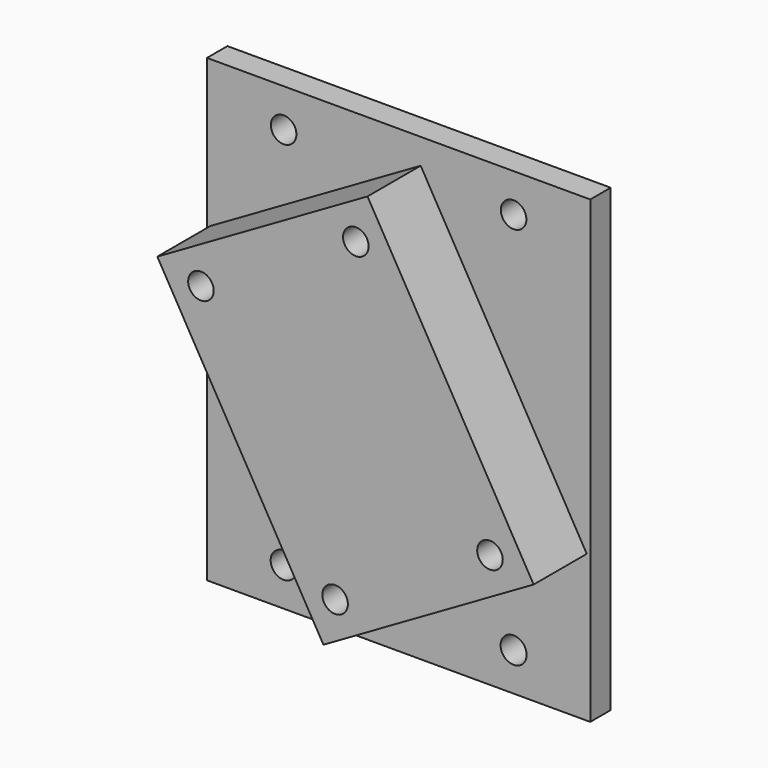
from build123d import *

# Parameters (mm, degrees)
F0_R     = 1.017764
F0_R_2   = 1
F1_DEPTH = 2
F2_R     = 1
F3_DEPTH = 5.2
F4_R     = 1.5
F4_R_2   = 1
F5_DEPTH = 3.5
F6_R     = 1
F7_DEPTH = 10


with BuildPart() as f1:
    # F0 (on Front) → F1 (new body)
    with BuildSketch(Plane.XZ):
        Polygon((-11.371579, 18), (-15, 18), (-15, -18), (15, -18), (15, 18), (5.371579, 18), align=None)
        with Locations((-9, -15)):
            Circle(F0_R, mode=Mode.SUBTRACT)
        with Locations((-0.812178, -12.593267)):
            Circle(F0_R_2, mode=Mode.SUBTRACT)
        with Locations((9, -15)):
            Circle(F0_R, mode=Mode.SUBTRACT)
        with Locations((11.312178, -5.593267)):
            Circle(F0_R_2, mode=Mode.SUBTRACT)
        with Locations((-11.312178, 5.593267)):
            Circle(F0_R_2, mode=Mode.SUBTRACT)
        with Locations((-9, 15)):
            Circle(F0_R_2, mode=Mode.SUBTRACT)
        with Locations((0.812178, 12.593267)):
            Circle(F0_R_2, mode=Mode.SUBTRACT)
        with Locations((9, 15)):
            Circle(F0_R_2, mode=Mode.SUBTRACT)
    extrude(amount=F1_DEPTH)

    # F2 (on face) → F3 (join)
    with BuildSketch(Plane.XZ.offset(2)):
        with Locations((-11.312178, 5.593267)):
            Circle(F2_R)
        with Locations((-0.812178, -12.593267)):
            Circle(F2_R)
        with Locations((0.812178, 12.593267)):
            Circle(F2_R)
        with Locations((11.312178, -5.593267)):
            Circle(F2_R)
        Polygon((14.727241, -6.50833), (1.727241, 16.00833), (-14.727241, 6.50833), (-1.727241, -16.00833), align=None)
        with Locations((-0.812178, -12.593267)):
            Circle(F2_R, mode=Mode.SUBTRACT)
        with Locations((11.312178, -5.593267)):
            Circle(F2_R, mode=Mode.SUBTRACT)
        with Locations((-11.312178, 5.593267)):
            Circle(F2_R, mode=Mode.SUBTRACT)
        with Locations((0.812178, 12.593267)):
            Circle(F2_R, mode=Mode.SUBTRACT)
    extrude(amount=F3_DEPTH)

    # F4 (on face) → F5 (cut)
    with BuildSketch(Plane(origin=(0, 0, 0), x_dir=(-1, 0, 0), z_dir=(0, 1, 0))):
        with Locations((-11.312178, -5.593267)):
            Circle(F4_R)
        with Locations((-11.312178, -5.593267)):
            Circle(F4_R_2, mode=Mode.SUBTRACT)
        with Locations((0.812178, -12.593267)):
            Circle(F4_R)
        with Locations((0.812178, -12.593267)):
            Circle(F4_R_2, mode=Mode.SUBTRACT)
        with Locations((-0.812178, 12.593267)):
            Circle(F4_R)
        with Locations((-0.812178, 12.593267)):
            Circle(F4_R_2, mode=Mode.SUBTRACT)
        with Locations((11.312178, 5.593267)):
            Circle(F4_R)
        with Locations((11.312178, 5.593267)):
            Circle(F4_R_2, mode=Mode.SUBTRACT)
    extrude(amount=-F5_DEPTH, mode=Mode.SUBTRACT)

    # F6 (on face) → F7 (cut)
    with BuildSketch(Plane(origin=(0, 0, 0), x_dir=(-1, 0, 0), z_dir=(0, 1, 0))):
        with Locations((-0.812178, 12.593267)):
            Circle(F6_R)
        with Locations((11.312178, 5.593267)):
            Circle(F6_R)
        with Locations((0.812178, -12.593267)):
            Circle(F6_R)
        with Locations((-11.312178, -5.593267)):
            Circle(F6_R)
    extrude(amount=-F7_DEPTH, mode=Mode.SUBTRACT)


solid = f1.part
